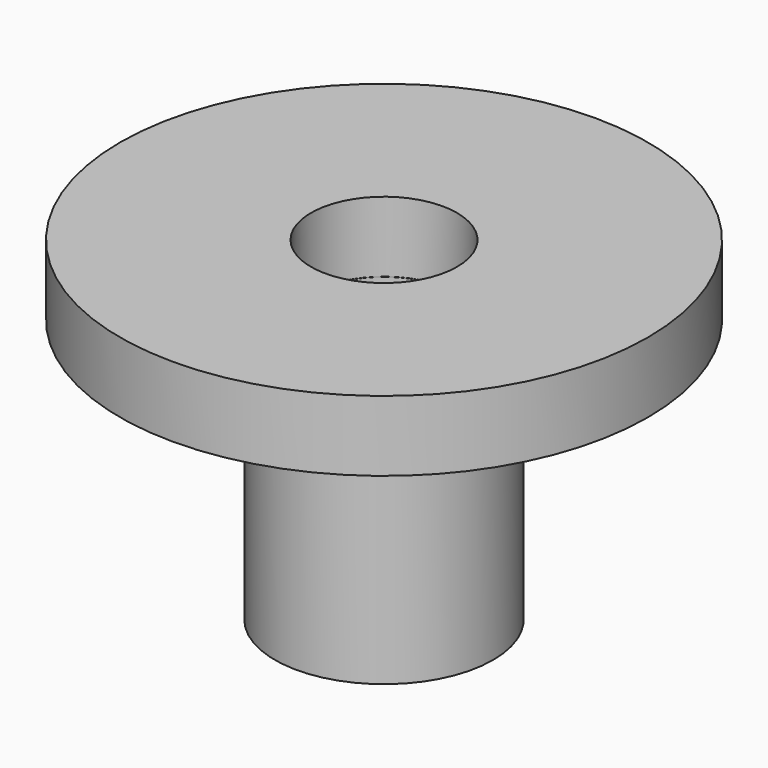
from build123d import *

# Parameters (mm, degrees)
SKETCH_R      = 6.2
SKETCH_R_2    = 4.125
PAD_DEPTH     = 15
SKETCH001_R   = 15
SKETCH001_R_2 = 4.15
PAD001_DEPTH  = 4


with BuildPart() as part:
    # Sketch → Pad (new body)
    with BuildSketch(Plane.XY):
        Circle(SKETCH_R)
        Circle(SKETCH_R_2, mode=Mode.SUBTRACT)
    extrude(amount=PAD_DEPTH)

    # Sketch001 (on Face4 of Pad) → Pad001 (join)
    with BuildSketch(Plane.XY.offset(15)):
        Circle(SKETCH001_R)
        Circle(SKETCH001_R_2, mode=Mode.SUBTRACT)
    extrude(amount=PAD001_DEPTH)


solid = part.part
